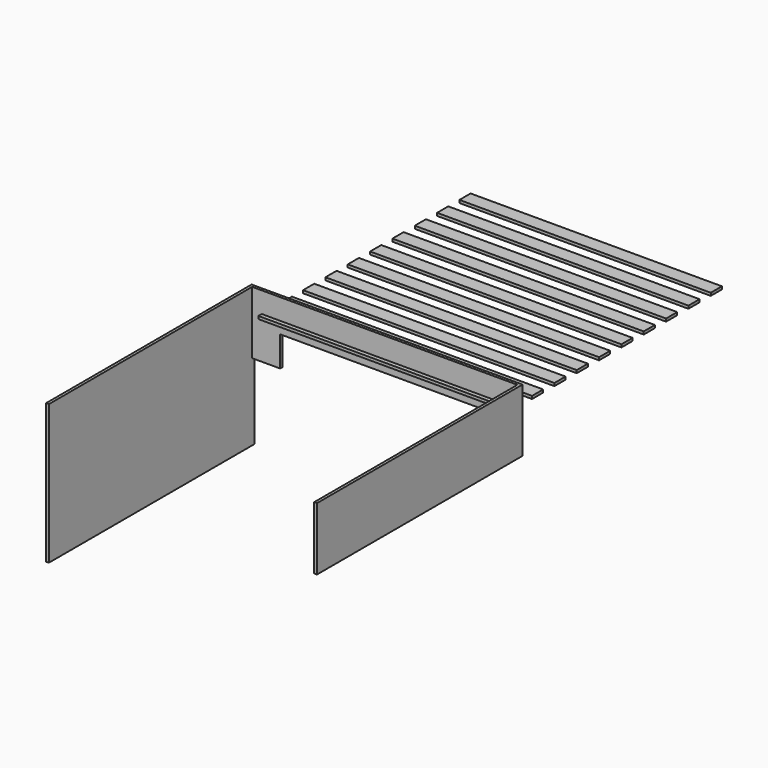
from build123d import *

# Parameters (mm, degrees)
F1_DEPTH = 20
F2_W     = 1800
F2_H     = 100
F3_DEPTH = 20
F4_W     = 20
F4_H     = 1000
F4_H_2   = 450
F5_DEPTH = 1840


with BuildPart() as f1:
    # F0 (on Front) → F1 (new body)
    with BuildSketch(Plane.XZ):
        Polygon((931.401536, 169.080263), (-968.598464, 169.080263), (-968.598464, -280.919737), (-768.598464, -280.919737), (-768.598464, -65.084957), (731.401536, -65.084957), (731.401536, -280.919737), (931.401536, -280.919737), align=None)
    extrude(amount=F1_DEPTH)


with BuildPart() as f3:
    # F2 (on Top) → F3 (new body)
    with BuildSketch(Plane.XY):
        with Locations((0, 1800)):
            Rectangle(F2_W, F2_H)
        Polygon((-900, 1550), (900, 1550), (900, 1650.000024), (-900, 1650), align=None)
        with Locations((0, 1400)):
            Rectangle(F2_W, F2_H)
        with Locations((0, 1200)):
            Rectangle(F2_W, F2_H)
        with Locations((0, 1000)):
            Rectangle(F2_W, F2_H)
        with Locations((0, 800)):
            Rectangle(F2_W, F2_H)
        with Locations((0, 600)):
            Rectangle(F2_W, F2_H)
        with Locations((0, 400)):
            Rectangle(F2_W, F2_H)
        with Locations((0, 200)):
            Rectangle(F2_W, F2_H)
        Rectangle(F2_W, F2_H)
    extrude(amount=F3_DEPTH)


with BuildPart() as f5:
    # F4 (on Front) → F5 (new body)
    with BuildSketch(Plane.XZ):
        with Locations((-978.598464, -330.919737)):
            Rectangle(F4_W, F4_H)
        with Locations((941.401536, -55.919737)):
            Rectangle(F4_W, F4_H_2)
    extrude(amount=F5_DEPTH)


solid = Compound([f1.part, f3.part, f5.part])
